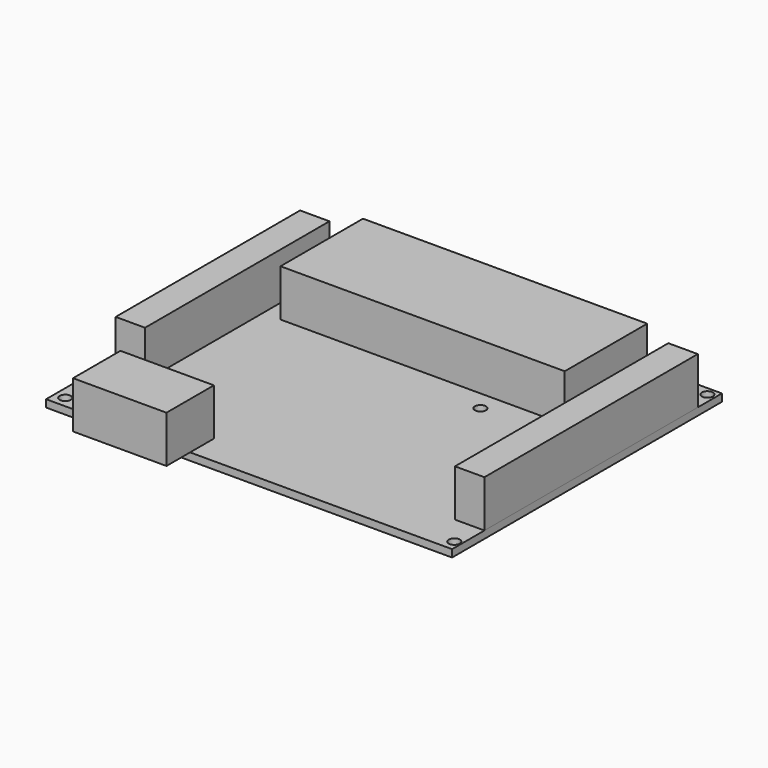
from build123d import *

# Parameters (mm, degrees)
F0_W     = 109.9
F0_H     = 91.3
F1_DEPTH = 2
F2_R     = 1.5
F3_DEPTH = 25.4
F4_W     = 25.296519
F4_H     = 16.046952
F5_DEPTH = 12.7
F6_W     = 7.949238
F6_H     = 62.397955
F7_DEPTH = 12.7
F8_W     = 7.973293
F8_H     = 72.191391
F8_W_2   = 76.933302
F8_H_2   = 27.90428
F9_DEPTH = 12.7


with BuildPart() as f1:
    # F0 (on Top) → F1 (new body)
    with BuildSketch(Plane.XY):
        with Locations((54.95, 45.65)):
            Rectangle(F0_W, F0_H)
    extrude(amount=F1_DEPTH)

    # F2 (on face) → F3 (cut)
    with BuildSketch(Plane.XY.offset(2)):
        with Locations((3.6, 88.5)):
            Circle(F2_R)
        with Locations((108.1, 3)):
            Circle(F2_R)
        with Locations((107.8, 89)):
            Circle(F2_R)
        with Locations((2.8, 3)):
            Circle(F2_R)
        with Locations((74.3, 54.1)):
            Circle(F2_R)
    extrude(amount=-F3_DEPTH, mode=Mode.SUBTRACT)

    # F4 (on face) → F5 (join)
    with BuildSketch(Plane.XY.offset(2)):
        with Locations((26.327649, 0.037087)):
            Rectangle(F4_W, F4_H)
    extrude(amount=F5_DEPTH)

    # F6 (on face) → F7 (join)
    with BuildSketch(Plane.XY.offset(2)):
        with Locations((7.164945, 50.75232)):
            Rectangle(F6_W, F6_H)
    extrude(amount=F7_DEPTH)

    # F8 (on face) → F9 (join)
    with BuildSketch(Plane.XY.offset(2)):
        with Locations((105.913353, 47.034552)):
            Rectangle(F8_W, F8_H)
        with Locations((54.388795, 73.369596)):
            Rectangle(F8_W_2, F8_H_2)
    extrude(amount=F9_DEPTH)


solid = f1.part
